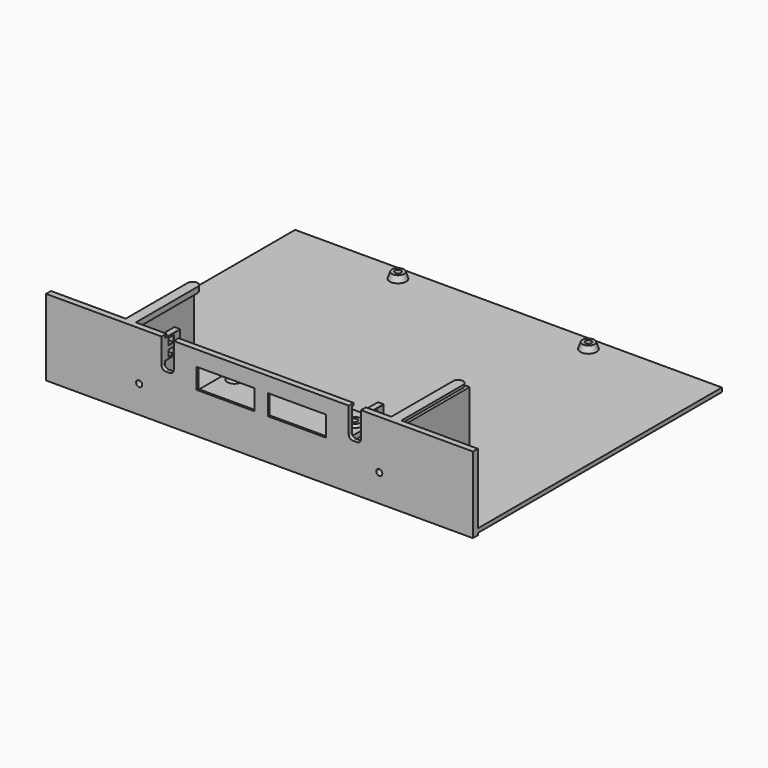
from build123d import *

# Parameters (mm, degrees)
BOX099_W                  = 3
BOX099_H                  = 3
BOX099_DEPTH              = 3
BOX098_W                  = 3
BOX098_H                  = 3
BOX098_DEPTH              = 3
BOX097_W                  = 10
BOX097_H                  = 3
BOX097_DEPTH              = 10
FILLET023_R               = 0.2
BOX096_W                  = 3
BOX096_H                  = 3
BOX096_DEPTH              = 3
BOX095_W                  = 3
BOX095_H                  = 3
BOX095_DEPTH              = 3
BOX094_W                  = 10
BOX094_H                  = 3
BOX094_DEPTH              = 10
FILLET022_R               = 0.2
CYLINDER017_R             = 1.5
CYLINDER017_DEPTH         = 10
CYLINDER016_R             = 1.5
CYLINDER016_DEPTH         = 10
BOX072_W                  = 10
BOX072_H                  = 5.45
BOX072_DEPTH              = 5
BOX072_PLACEMENT_ANGLE    = 30
BOX071_W                  = 5.45
BOX071_H                  = 10
BOX071_DEPTH              = 5
BOX071_PLACEMENT_ANGLE    = 120
BOX070_W                  = 5.45
BOX070_H                  = 10
BOX070_DEPTH              = 5
CYLINDER010_R             = 1.5
CYLINDER010_DEPTH         = 10
BOX075_W                  = 10
BOX075_H                  = 5.45
BOX075_DEPTH              = 5
BOX075_PLACEMENT_ANGLE    = 30
BOX074_W                  = 5.45
BOX074_H                  = 10
BOX074_DEPTH              = 5
BOX074_PLACEMENT_ANGLE    = 120
BOX073_W                  = 5.45
BOX073_H                  = 10
BOX073_DEPTH              = 5
CYLINDER011_R             = 1.5
CYLINDER011_DEPTH         = 10
BOX078_W                  = 10
BOX078_H                  = 5.45
BOX078_DEPTH              = 5
BOX078_PLACEMENT_ANGLE    = 30
BOX077_W                  = 5.45
BOX077_H                  = 10
BOX077_DEPTH              = 5
BOX077_PLACEMENT_ANGLE    = 120
BOX076_W                  = 5.45
BOX076_H                  = 10
BOX076_DEPTH              = 5
CYLINDER012_R             = 1.5
CYLINDER012_DEPTH         = 10
BOX066_W                  = 10
BOX066_H                  = 5.45
BOX066_DEPTH              = 5
BOX066_PLACEMENT_ANGLE    = 30
BOX065_W                  = 5.45
BOX065_H                  = 10
BOX065_DEPTH              = 5
BOX065_PLACEMENT_ANGLE    = 120
BOX064_W                  = 5.45
BOX064_H                  = 10
BOX064_DEPTH              = 5
CYLINDER_R                = 1.5
CYLINDER_DEPTH            = 10
CYLINDER004_R             = 2.75
CYLINDER004_DEPTH         = 3
FILLET003_R               = 0.5
BOX056_W                  = 130
BOX056_H                  = 5.5
BOX056_DEPTH              = 3
FILLET002_R               = 0.5
CYLINDER005_R             = 2.75
CYLINDER005_DEPTH         = 3
FILLET005_R               = 0.5
BOX057_W                  = 130
BOX057_H                  = 5.5
BOX057_DEPTH              = 3
FILLET004_R               = 0.5
CYLINDER006_R             = 2.75
CYLINDER006_DEPTH         = 3
FILLET007_R               = 0.5
BOX058_W                  = 130
BOX058_H                  = 5.5
BOX058_DEPTH              = 3
FILLET006_R               = 0.5
CYLINDER007_R             = 2.75
CYLINDER007_DEPTH         = 3
FILLET009_R               = 0.5
BOX059_W                  = 130
BOX059_H                  = 5.5
BOX059_DEPTH              = 3
FILLET008_R               = 0.5
BOX054_W                  = 150
BOX054_H                  = 209.75
BOX054_DEPTH              = 2
BOX093_W                  = 147
BOX093_H                  = 102
BOX093_DEPTH              = 2
BOX090_W                  = 10
BOX090_H                  = 5.45
BOX090_DEPTH              = 2
BOX090_PLACEMENT_ANGLE    = 30
BOX092_W                  = 5.45
BOX092_H                  = 10
BOX092_DEPTH              = 2
BOX092_PLACEMENT_ANGLE    = 120
BOX091_W                  = 5.45
BOX091_H                  = 10
BOX091_DEPTH              = 2
CYLINDER015_R             = 1.5
CYLINDER015_DEPTH         = 10
BOX089_W                  = 10
BOX089_H                  = 5.45
BOX089_DEPTH              = 2
BOX089_PLACEMENT_ANGLE    = 30
BOX088_W                  = 5.45
BOX088_H                  = 10
BOX088_DEPTH              = 2
BOX088_PLACEMENT_ANGLE    = 120
BOX087_W                  = 5.45
BOX087_H                  = 10
BOX087_DEPTH              = 2
CYLINDER014_R             = 1.5
CYLINDER014_DEPTH         = 10
BOX084_W                  = 10
BOX084_H                  = 5
BOX084_DEPTH              = 20
BOX084_PLACEMENT_ANGLE    = 45
BOX083_W                  = 10
BOX083_H                  = 5
BOX083_DEPTH              = 10
BOX085_W                  = 10
BOX085_H                  = 5
BOX085_DEPTH              = 20
BOX085_PLACEMENT_ANGLE    = 45
BOX086_W                  = 10
BOX086_H                  = 5
BOX086_DEPTH              = 10
BOX082_W                  = 70
BOX082_H                  = 30
BOX082_DEPTH              = 2.5
CYLINDER001_R             = 1.5
CYLINDER001_DEPTH         = 10
CYLINDER002_R             = 1.5
CYLINDER002_DEPTH         = 10
CYLINDER003_R             = 1.5
CYLINDER003_DEPTH         = 10
CYLINDER013_R             = 1.5
CYLINDER013_DEPTH         = 10
BOX081_W                  = 70
BOX081_H                  = 5
BOX081_DEPTH              = 13
BOX079_W                  = 28.5
BOX079_H                  = 10
BOX079_DEPTH              = 10
BOX080_W                  = 28.5
BOX080_H                  = 10
BOX080_DEPTH              = 10
FUSION029_PLACEMENT_ANGLE = 90
CYLINDER009_R             = 2.5
CYLINDER009_DEPTH         = 3
FILLET013_R               = 0.5
BOX063_W                  = 38
BOX063_H                  = 5
BOX063_DEPTH              = 3
FILLET012_R               = 0.5
BOX061_W                  = 40
BOX061_H                  = 3
BOX061_DEPTH              = 35.2
BOX060_W                  = 40
BOX060_H                  = 3
BOX060_DEPTH              = 35.2
BOX069_W                  = 10
BOX069_H                  = 6
BOX069_DEPTH              = 15
FILLET015_R               = 2
BOX068_W                  = 10
BOX068_H                  = 6
BOX068_DEPTH              = 15
FILLET014_R               = 2
BOX067_W                  = 4
BOX067_H                  = 203
BOX067_DEPTH              = 33.5
BOX055_W                  = 3
BOX055_H                  = 209.75
BOX055_DEPTH              = 37.5
CYLINDER008_R             = 2.5
CYLINDER008_DEPTH         = 3
FILLET011_R               = 0.5
BOX062_W                  = 38
BOX062_H                  = 5
BOX062_DEPTH              = 3
FILLET010_R               = 0.5
FUSION043_PLACEMENT_ANGLE = 90


with BuildPart() as cube098:
    # Box099 → Box099 (new body)
    with BuildSketch(Plane(origin=(3, 10, 32), x_dir=(1, 0, 0), z_dir=(0, 0, 1))):
        with Locations((1.5, 1.5)):
            Rectangle(BOX099_W, BOX099_H)
    extrude(amount=BOX099_DEPTH)


with BuildPart() as fusion026:
    # Box098 → Box098 (new body)
    with BuildSketch(Plane(origin=(3, 10, 27), x_dir=(1, 0, 0), z_dir=(0, 0, 1))):
        with Locations((1.5, 1.5)):
            Rectangle(BOX098_W, BOX098_H)
    extrude(amount=BOX098_DEPTH)

    # Fusion041: union Cube098
    add(cube098.part)


with BuildPart() as zip_ties_holder001:
    # Box097 → Box097 (new body)
    with BuildSketch(Plane(origin=(0, 10, 26), x_dir=(1, 0, 0), z_dir=(0, 0, 1))):
        with Locations((5, 1.5)):
            Rectangle(BOX097_W, BOX097_H)
    extrude(amount=BOX097_DEPTH)

    # Cut029: cut Fusion026
    add(fusion026.part, mode=Mode.SUBTRACT)

    # Fillet023
    fillet023_edges = [zip_ties_holder001.edges().sort_by_distance(p)[0] for p in [
        (5, 10, 26),
        (10, 10, 31),
        (5, 10, 36),
        (4.5, 10, 30),
        (6, 10, 28.5),
        (4.5, 10, 27),
        (3, 10, 28.5),
        (4.5, 10, 35),
        (6, 10, 33.5),
        (4.5, 10, 32),
        (3, 10, 33.5),
        (5, 13, 36),
        (10, 13, 31),
        (4.5, 13, 30),
        (6, 13, 28.5),
        (4.5, 13, 27),
        (3, 13, 28.5),
        (4.5, 13, 35),
        (6, 13, 33.5),
        (4.5, 13, 32),
        (3, 13, 33.5),
        (10, 11.5, 26),
    ]]
    fillet(fillet023_edges, radius=FILLET023_R)


with BuildPart() as zip_ties_holder001_1:
    # Fillet023 placement: moved
    add(zip_ties_holder001.part.moved(Location((-1, 87, -1))))


with BuildPart() as cube095:
    # Box096 → Box096 (new body)
    with BuildSketch(Plane(origin=(3, 10, 32), x_dir=(1, 0, 0), z_dir=(0, 0, 1))):
        with Locations((1.5, 1.5)):
            Rectangle(BOX096_W, BOX096_H)
    extrude(amount=BOX096_DEPTH)


with BuildPart() as fusion025:
    # Box095 → Box095 (new body)
    with BuildSketch(Plane(origin=(3, 10, 27), x_dir=(1, 0, 0), z_dir=(0, 0, 1))):
        with Locations((1.5, 1.5)):
            Rectangle(BOX095_W, BOX095_H)
    extrude(amount=BOX095_DEPTH)

    # Fusion040: union Cube095
    add(cube095.part)


with BuildPart() as zip_ties_holders:
    # Box094 → Box094 (new body)
    with BuildSketch(Plane(origin=(0, 10, 26), x_dir=(1, 0, 0), z_dir=(0, 0, 1))):
        with Locations((5, 1.5)):
            Rectangle(BOX094_W, BOX094_H)
    extrude(amount=BOX094_DEPTH)

    # Cut028: cut Fusion025
    add(fusion025.part, mode=Mode.SUBTRACT)

    # Fillet022
    fillet022_edges = [zip_ties_holders.edges().sort_by_distance(p)[0] for p in [
        (5, 10, 26),
        (10, 10, 31),
        (5, 10, 36),
        (4.5, 10, 30),
        (6, 10, 28.5),
        (4.5, 10, 27),
        (3, 10, 28.5),
        (4.5, 10, 35),
        (6, 10, 33.5),
        (4.5, 10, 32),
        (3, 10, 33.5),
        (5, 13, 36),
        (10, 13, 31),
        (4.5, 13, 30),
        (6, 13, 28.5),
        (4.5, 13, 27),
        (3, 13, 28.5),
        (4.5, 13, 35),
        (6, 13, 33.5),
        (4.5, 13, 32),
        (3, 13, 33.5),
        (10, 11.5, 26),
    ]]
    fillet(fillet022_edges, radius=FILLET022_R)


with BuildPart() as zip_ties_holders_1:
    # Fillet022 placement: moved
    add(zip_ties_holders.part.moved(Location((-1, -13, -1))))

    # Fusion042: union zip ties holder001
    add(zip_ties_holder001_1.part)


with BuildPart() as zip_ties_holders_2:
    # Fusion042 placement: moved
    add(zip_ties_holders_1.part.moved(Location((-0.5, 0, 0))))


with BuildPart() as cylinder017:
    # Cylinder017 → Cylinder017 (new body)
    with BuildSketch(Plane(origin=(-5, 108, 32.5), x_dir=(0, 0, -1), z_dir=(1, 0, 0))):
        Circle(CYLINDER017_R)
    extrude(amount=CYLINDER017_DEPTH)


with BuildPart() as fusion023:
    # Cylinder016 → Cylinder016 (new body)
    with BuildSketch(Plane(origin=(-5, -10, 32.5), x_dir=(0, 0, -1), z_dir=(1, 0, 0))):
        Circle(CYLINDER016_R)
    extrude(amount=CYLINDER016_DEPTH)

    # Fusion038: union Cylinder017
    add(cylinder017.part)


with BuildPart() as fusion023_1:
    # Fusion038 placement: moved
    add(fusion023.part.moved(Location((0, 0, -20))))


with BuildPart() as cone007:
    # Cone007 → Cone007 (revolve)
    with BuildSketch(Plane(origin=(-1, 108, 32.5), x_dir=(0, 0, -1), z_dir=(0, -1, 0))):
        Polygon((0, 0), (3, 0), (2, 5), (0, 5), align=None)
    revolve(axis=Axis((-1, 108, 32.5), (1, 0, 0)))


with BuildPart() as fusion022:
    # Cone006 → Cone006 (revolve)
    with BuildSketch(Plane(origin=(-1, -10, 32.5), x_dir=(0, 0, -1), z_dir=(0, -1, 0))):
        Polygon((0, 0), (3, 0), (2, 5), (0, 5), align=None)
    revolve(axis=Axis((-1, -10, 32.5), (1, 0, 0)))

    # Fusion037: union Cone007
    add(cone007.part)


with BuildPart() as fusion022_1:
    # Fusion037 placement: moved
    add(fusion022.part.moved(Location((-1, 0, -20))))


with BuildPart() as cube072:
    # Box072 → Box072 (new body)
    with BuildSketch(Plane.XY):
        with Locations((5, 2.725)):
            Rectangle(BOX072_W, BOX072_H)
    extrude(amount=BOX072_DEPTH)


with BuildPart() as cube072_1:
    # Box072 placement: moved
    add(cube072.part.moved(Location((0.55, 4, 0))).rotate(Axis((0.55, 4, 0), (0, 0, -1)), BOX072_PLACEMENT_ANGLE))


with BuildPart() as cube071:
    # Box071 → Box071 (new body)
    with BuildSketch(Plane.XY):
        with Locations((2.725, 5)):
            Rectangle(BOX071_W, BOX071_H)
    extrude(amount=BOX071_DEPTH)


with BuildPart() as cube071_1:
    # Box071 placement: moved
    add(cube071.part.moved(Location((11.5, 4, 0))).rotate(Axis((11.5, 4, 0), (0, 0, 1)), BOX071_PLACEMENT_ANGLE))


with BuildPart() as m_25_nut001:
    # Box070 → Box070 (new body)
    with BuildSketch(Plane(origin=(3.25, 0, 0), x_dir=(1, 0, 0), z_dir=(0, 0, 1))):
        with Locations((2.725, 5)):
            Rectangle(BOX070_W, BOX070_H)
    extrude(amount=BOX070_DEPTH)

    # Common001: intersect Cube072, Cube071
    add(cube072_1.part, mode=Mode.INTERSECT)
    add(cube071_1.part, mode=Mode.INTERSECT)


with BuildPart() as m_25_nut001_1:
    # Common001 placement: moved
    add(m_25_nut001.part.moved(Location((-2, 0, -1))))


with BuildPart() as screw_hole001:
    # Cylinder010 → Cylinder010 (new body)
    with BuildSketch(Plane(origin=(4, 4, -1), x_dir=(1, 0, 0), z_dir=(0, 0, 1))):
        Circle(CYLINDER010_R)
    extrude(amount=CYLINDER010_DEPTH)

    # Fusion024: union M.25 nut001
    add(m_25_nut001_1.part)


with BuildPart() as screw_hole001_1:
    # Fusion024 placement: moved
    add(screw_hole001.part.moved(Location((139, 0, 0))))


with BuildPart() as cube075:
    # Box075 → Box075 (new body)
    with BuildSketch(Plane.XY):
        with Locations((5, 2.725)):
            Rectangle(BOX075_W, BOX075_H)
    extrude(amount=BOX075_DEPTH)


with BuildPart() as cube075_1:
    # Box075 placement: moved
    add(cube075.part.moved(Location((0.55, 4, 0))).rotate(Axis((0.55, 4, 0), (0, 0, -1)), BOX075_PLACEMENT_ANGLE))


with BuildPart() as cube074:
    # Box074 → Box074 (new body)
    with BuildSketch(Plane.XY):
        with Locations((2.725, 5)):
            Rectangle(BOX074_W, BOX074_H)
    extrude(amount=BOX074_DEPTH)


with BuildPart() as cube074_1:
    # Box074 placement: moved
    add(cube074.part.moved(Location((11.5, 4, 0))).rotate(Axis((11.5, 4, 0), (0, 0, 1)), BOX074_PLACEMENT_ANGLE))


with BuildPart() as m_25_nut002:
    # Box073 → Box073 (new body)
    with BuildSketch(Plane(origin=(3.25, 0, 0), x_dir=(1, 0, 0), z_dir=(0, 0, 1))):
        with Locations((2.725, 5)):
            Rectangle(BOX073_W, BOX073_H)
    extrude(amount=BOX073_DEPTH)

    # Common002: intersect Cube075, Cube074
    add(cube075_1.part, mode=Mode.INTERSECT)
    add(cube074_1.part, mode=Mode.INTERSECT)


with BuildPart() as m_25_nut002_1:
    # Common002 placement: moved
    add(m_25_nut002.part.moved(Location((-2, 0, -1))))


with BuildPart() as screw_hole002:
    # Cylinder011 → Cylinder011 (new body)
    with BuildSketch(Plane(origin=(4, 4, -1), x_dir=(1, 0, 0), z_dir=(0, 0, 1))):
        Circle(CYLINDER011_R)
    extrude(amount=CYLINDER011_DEPTH)

    # Fusion025: union M.25 nut002
    add(m_25_nut002_1.part)


with BuildPart() as screw_hole002_1:
    # Fusion025 placement: moved
    add(screw_hole002.part.moved(Location((0, 93.6, 0))))


with BuildPart() as cube078:
    # Box078 → Box078 (new body)
    with BuildSketch(Plane.XY):
        with Locations((5, 2.725)):
            Rectangle(BOX078_W, BOX078_H)
    extrude(amount=BOX078_DEPTH)


with BuildPart() as cube078_1:
    # Box078 placement: moved
    add(cube078.part.moved(Location((0.55, 4, 0))).rotate(Axis((0.55, 4, 0), (0, 0, -1)), BOX078_PLACEMENT_ANGLE))


with BuildPart() as cube077:
    # Box077 → Box077 (new body)
    with BuildSketch(Plane.XY):
        with Locations((2.725, 5)):
            Rectangle(BOX077_W, BOX077_H)
    extrude(amount=BOX077_DEPTH)


with BuildPart() as cube077_1:
    # Box077 placement: moved
    add(cube077.part.moved(Location((11.5, 4, 0))).rotate(Axis((11.5, 4, 0), (0, 0, 1)), BOX077_PLACEMENT_ANGLE))


with BuildPart() as m_25_nut003:
    # Box076 → Box076 (new body)
    with BuildSketch(Plane(origin=(3.25, 0, 0), x_dir=(1, 0, 0), z_dir=(0, 0, 1))):
        with Locations((2.725, 5)):
            Rectangle(BOX076_W, BOX076_H)
    extrude(amount=BOX076_DEPTH)

    # Common003: intersect Cube078, Cube077
    add(cube078_1.part, mode=Mode.INTERSECT)
    add(cube077_1.part, mode=Mode.INTERSECT)


with BuildPart() as m_25_nut003_1:
    # Common003 placement: moved
    add(m_25_nut003.part.moved(Location((-2, 0, -1))))


with BuildPart() as screw_hole003:
    # Cylinder012 → Cylinder012 (new body)
    with BuildSketch(Plane(origin=(4, 4, -1), x_dir=(1, 0, 0), z_dir=(0, 0, 1))):
        Circle(CYLINDER012_R)
    extrude(amount=CYLINDER012_DEPTH)

    # Fusion026: union M.25 nut003
    add(m_25_nut003_1.part)


with BuildPart() as screw_hole003_1:
    # Fusion026 placement: moved
    add(screw_hole003.part.moved(Location((139, 93.6, 0))))


with BuildPart() as cube066:
    # Box066 → Box066 (new body)
    with BuildSketch(Plane.XY):
        with Locations((5, 2.725)):
            Rectangle(BOX066_W, BOX066_H)
    extrude(amount=BOX066_DEPTH)


with BuildPart() as cube066_1:
    # Box066 placement: moved
    add(cube066.part.moved(Location((0.55, 4, 0))).rotate(Axis((0.55, 4, 0), (0, 0, -1)), BOX066_PLACEMENT_ANGLE))


with BuildPart() as cube065:
    # Box065 → Box065 (new body)
    with BuildSketch(Plane.XY):
        with Locations((2.725, 5)):
            Rectangle(BOX065_W, BOX065_H)
    extrude(amount=BOX065_DEPTH)


with BuildPart() as cube065_1:
    # Box065 placement: moved
    add(cube065.part.moved(Location((11.5, 4, 0))).rotate(Axis((11.5, 4, 0), (0, 0, 1)), BOX065_PLACEMENT_ANGLE))


with BuildPart() as m_25_nut:
    # Box064 → Box064 (new body)
    with BuildSketch(Plane(origin=(3.25, 0, 0), x_dir=(1, 0, 0), z_dir=(0, 0, 1))):
        with Locations((2.725, 5)):
            Rectangle(BOX064_W, BOX064_H)
    extrude(amount=BOX064_DEPTH)

    # Common: intersect Cube066, Cube065
    add(cube066_1.part, mode=Mode.INTERSECT)
    add(cube065_1.part, mode=Mode.INTERSECT)


with BuildPart() as m_25_nut_1:
    # Common placement: moved
    add(m_25_nut.part.moved(Location((-2, 0, -1))))


with BuildPart() as screws:
    # Cylinder → Cylinder (new body)
    with BuildSketch(Plane(origin=(4, 4, -1), x_dir=(1, 0, 0), z_dir=(0, 0, 1))):
        Circle(CYLINDER_R)
    extrude(amount=CYLINDER_DEPTH)

    # Fusion023: union M.25 nut
    add(m_25_nut_1.part)

    # Fusion027: union screw_hole001, screw_hole002, screw_hole003
    add(screw_hole001_1.part)
    add(screw_hole002_1.part)
    add(screw_hole003_1.part)


with BuildPart() as screws_1:
    # Fusion027 placement: moved
    add(screws.part.moved(Location((0, 0, -1.5))))


with BuildPart() as fillet003:
    # Cylinder004 → Cylinder004 (new body)
    with BuildSketch(Plane(origin=(130, 2.75, -2), x_dir=(1, 0, 0), z_dir=(0, 0, 1))):
        Circle(CYLINDER004_R)
    extrude(amount=CYLINDER004_DEPTH)

    # Fillet003
    fillet003_edges = [fillet003.edges().sort_by_distance(p)[0] for p in [
        (127.25, 2.75, -2),
    ]]
    fillet(fillet003_edges, radius=FILLET003_R)


with BuildPart() as fusion015:
    # Box056 → Box056 (new body)
    with BuildSketch(Plane.XY.offset(-2)):
        with Locations((65, 2.75)):
            Rectangle(BOX056_W, BOX056_H)
    extrude(amount=BOX056_DEPTH)

    # Fillet002
    fillet002_edges = [fusion015.edges().sort_by_distance(p)[0] for p in [
        (65, 0, -2),
        (65, 5.5, -2),
    ]]
    fillet(fillet002_edges, radius=FILLET002_R)

    # Fusion015: union Fillet003
    add(fillet003.part)


with BuildPart() as fusion015_1:
    # Fusion015 placement: moved
    add(fusion015.part.moved(Location((0, -39.25, 1))))


with BuildPart() as fillet005:
    # Cylinder005 → Cylinder005 (new body)
    with BuildSketch(Plane(origin=(130, 2.75, -2), x_dir=(1, 0, 0), z_dir=(0, 0, 1))):
        Circle(CYLINDER005_R)
    extrude(amount=CYLINDER005_DEPTH)

    # Fillet005
    fillet005_edges = [fillet005.edges().sort_by_distance(p)[0] for p in [
        (127.25, 2.75, -2),
    ]]
    fillet(fillet005_edges, radius=FILLET005_R)


with BuildPart() as fusion016:
    # Box057 → Box057 (new body)
    with BuildSketch(Plane.XY.offset(-2)):
        with Locations((65, 2.75)):
            Rectangle(BOX057_W, BOX057_H)
    extrude(amount=BOX057_DEPTH)

    # Fillet004
    fillet004_edges = [fusion016.edges().sort_by_distance(p)[0] for p in [
        (65, 0, -2),
        (65, 5.5, -2),
    ]]
    fillet(fillet004_edges, radius=FILLET004_R)

    # Fusion016: union Fillet005
    add(fillet005.part)


with BuildPart() as fusion016_1:
    # Fusion016 placement: moved
    add(fusion016.part.moved(Location((0, 129.25, 1))))


with BuildPart() as fillet007:
    # Cylinder006 → Cylinder006 (new body)
    with BuildSketch(Plane(origin=(130, 2.75, -2), x_dir=(1, 0, 0), z_dir=(0, 0, 1))):
        Circle(CYLINDER006_R)
    extrude(amount=CYLINDER006_DEPTH)

    # Fillet007
    fillet007_edges = [fillet007.edges().sort_by_distance(p)[0] for p in [
        (127.25, 2.75, -2),
    ]]
    fillet(fillet007_edges, radius=FILLET007_R)


with BuildPart() as fusion017:
    # Box058 → Box058 (new body)
    with BuildSketch(Plane.XY.offset(-2)):
        with Locations((65, 2.75)):
            Rectangle(BOX058_W, BOX058_H)
    extrude(amount=BOX058_DEPTH)

    # Fillet006
    fillet006_edges = [fusion017.edges().sort_by_distance(p)[0] for p in [
        (65, 0, -2),
        (65, 5.5, -2),
    ]]
    fillet(fillet006_edges, radius=FILLET006_R)

    # Fusion017: union Fillet007
    add(fillet007.part)


with BuildPart() as fusion017_1:
    # Fusion017 placement: moved
    add(fusion017.part.moved(Location((0, 101.25, 1))))


with BuildPart() as fillet009:
    # Cylinder007 → Cylinder007 (new body)
    with BuildSketch(Plane(origin=(130, 2.75, -2), x_dir=(1, 0, 0), z_dir=(0, 0, 1))):
        Circle(CYLINDER007_R)
    extrude(amount=CYLINDER007_DEPTH)

    # Fillet009
    fillet009_edges = [fillet009.edges().sort_by_distance(p)[0] for p in [
        (127.25, 2.75, -2),
    ]]
    fillet(fillet009_edges, radius=FILLET009_R)


with BuildPart() as fusion018:
    # Box059 → Box059 (new body)
    with BuildSketch(Plane.XY.offset(-2)):
        with Locations((65, 2.75)):
            Rectangle(BOX059_W, BOX059_H)
    extrude(amount=BOX059_DEPTH)

    # Fillet008
    fillet008_edges = [fusion018.edges().sort_by_distance(p)[0] for p in [
        (65, 0, -2),
        (65, 5.5, -2),
    ]]
    fillet(fillet008_edges, radius=FILLET008_R)

    # Fusion018: union Fillet009
    add(fillet009.part)


with BuildPart() as fusion018_1:
    # Fusion018 placement: moved
    add(fusion018.part.moved(Location((0, -11.25, 1))))


with BuildPart() as cone:
    # Cone → Cone (revolve)
    with BuildSketch(Plane(origin=(4, 4, 2), x_dir=(1, 0, 0), z_dir=(0, -1, 0))):
        Polygon((0, 0), (4, 0), (3, 3), (0, 3), align=None)
    revolve(axis=Axis((4, 4, 2), (0, 0, 1)))


with BuildPart() as cone001:
    # Cone001 → Cone001 (revolve)
    with BuildSketch(Plane(origin=(143, 4, 2), x_dir=(1, 0, 0), z_dir=(0, -1, 0))):
        Polygon((0, 0), (4, 0), (3, 3), (0, 3), align=None)
    revolve(axis=Axis((143, 4, 2), (0, 0, 1)))


with BuildPart() as cone002:
    # Cone002 → Cone002 (revolve)
    with BuildSketch(Plane(origin=(4, 97.6, 2), x_dir=(1, 0, 0), z_dir=(0, -1, 0))):
        Polygon((0, 0), (4, 0), (3, 3), (0, 3), align=None)
    revolve(axis=Axis((4, 97.6, 2), (0, 0, 1)))


with BuildPart() as cone003:
    # Cone003 → Cone003 (revolve)
    with BuildSketch(Plane(origin=(143, 97.6, 2), x_dir=(1, 0, 0), z_dir=(0, -1, 0))):
        Polygon((0, 0), (4, 0), (3, 3), (0, 3), align=None)
    revolve(axis=Axis((143, 97.6, 2), (0, 0, 1)))


with BuildPart() as cut008:
    # Box054 → Box054 (new body)
    with BuildSketch(Plane(origin=(0, -56, 0), x_dir=(1, 0, 0), z_dir=(0, 0, 1))):
        with Locations((75, 104.875)):
            Rectangle(BOX054_W, BOX054_H)
    extrude(amount=BOX054_DEPTH)

    # Fusion022: union Fusion015, Fusion016, Fusion017, Fusion018, Cone, Cone001, Cone002, Cone003
    add(fusion015_1.part)
    add(fusion016_1.part)
    add(fusion017_1.part)
    add(fusion018_1.part)
    add(cone.part)
    add(cone001.part)
    add(cone002.part)
    add(cone003.part)

    # Cut026: cut Screws
    add(screws_1.part, mode=Mode.SUBTRACT)


with BuildPart() as actual_c61_board:
    # Box093 → Box093 (new body)
    with BuildSketch(Plane.XY.offset(5)):
        with Locations((73.5, 51)):
            Rectangle(BOX093_W, BOX093_H)
    extrude(amount=BOX093_DEPTH)


with BuildPart() as cube090:
    # Box090 → Box090 (new body)
    with BuildSketch(Plane.XY):
        with Locations((5, 2.725)):
            Rectangle(BOX090_W, BOX090_H)
    extrude(amount=BOX090_DEPTH)


with BuildPart() as cube090_1:
    # Box090 placement: moved
    add(cube090.part.moved(Location((0.55, 4, 0))).rotate(Axis((0.55, 4, 0), (0, 0, -1)), BOX090_PLACEMENT_ANGLE))


with BuildPart() as cube092:
    # Box092 → Box092 (new body)
    with BuildSketch(Plane.XY):
        with Locations((2.725, 5)):
            Rectangle(BOX092_W, BOX092_H)
    extrude(amount=BOX092_DEPTH)


with BuildPart() as cube092_1:
    # Box092 placement: moved
    add(cube092.part.moved(Location((11.5, 4, 0))).rotate(Axis((11.5, 4, 0), (0, 0, 1)), BOX092_PLACEMENT_ANGLE))


with BuildPart() as m_25_nut005:
    # Box091 → Box091 (new body)
    with BuildSketch(Plane(origin=(3.25, 0, 0), x_dir=(1, 0, 0), z_dir=(0, 0, 1))):
        with Locations((2.725, 5)):
            Rectangle(BOX091_W, BOX091_H)
    extrude(amount=BOX091_DEPTH)

    # Common005: intersect Cube090, Cube092
    add(cube090_1.part, mode=Mode.INTERSECT)
    add(cube092_1.part, mode=Mode.INTERSECT)


with BuildPart() as m_25_nut005_1:
    # Common005 placement: moved
    add(m_25_nut005.part.moved(Location((-2, 0, -1))))


with BuildPart() as screw_hole005:
    # Cylinder015 → Cylinder015 (new body)
    with BuildSketch(Plane(origin=(4, 4, -1), x_dir=(1, 0, 0), z_dir=(0, 0, 1))):
        Circle(CYLINDER015_R)
    extrude(amount=CYLINDER015_DEPTH)

    # Fusion033: union M.25 nut005
    add(m_25_nut005_1.part)


with BuildPart() as screw_hole005_1:
    # Fusion033 placement: moved
    add(screw_hole005.part.moved(Location((13.5, 74, 13))))


with BuildPart() as cube089:
    # Box089 → Box089 (new body)
    with BuildSketch(Plane.XY):
        with Locations((5, 2.725)):
            Rectangle(BOX089_W, BOX089_H)
    extrude(amount=BOX089_DEPTH)


with BuildPart() as cube089_1:
    # Box089 placement: moved
    add(cube089.part.moved(Location((0.55, 4, 0))).rotate(Axis((0.55, 4, 0), (0, 0, -1)), BOX089_PLACEMENT_ANGLE))


with BuildPart() as cube088:
    # Box088 → Box088 (new body)
    with BuildSketch(Plane.XY):
        with Locations((2.725, 5)):
            Rectangle(BOX088_W, BOX088_H)
    extrude(amount=BOX088_DEPTH)


with BuildPart() as cube088_1:
    # Box088 placement: moved
    add(cube088.part.moved(Location((11.5, 4, 0))).rotate(Axis((11.5, 4, 0), (0, 0, 1)), BOX088_PLACEMENT_ANGLE))


with BuildPart() as m_25_nut004:
    # Box087 → Box087 (new body)
    with BuildSketch(Plane(origin=(3.25, 0, 0), x_dir=(1, 0, 0), z_dir=(0, 0, 1))):
        with Locations((2.725, 5)):
            Rectangle(BOX087_W, BOX087_H)
    extrude(amount=BOX087_DEPTH)

    # Common004: intersect Cube089, Cube088
    add(cube089_1.part, mode=Mode.INTERSECT)
    add(cube088_1.part, mode=Mode.INTERSECT)


with BuildPart() as m_25_nut004_1:
    # Common004 placement: moved
    add(m_25_nut004.part.moved(Location((-2, 0, -1))))


with BuildPart() as obj1:
    # Cylinder014 → Cylinder014 (new body)
    with BuildSketch(Plane(origin=(4, 4, -1), x_dir=(1, 0, 0), z_dir=(0, 0, 1))):
        Circle(CYLINDER014_R)
    extrude(amount=CYLINDER014_DEPTH)

    # Fusion032: union M.25 nut004
    add(m_25_nut004_1.part)


with BuildPart() as obj1_1:
    # Fusion032 placement: moved
    add(obj1.part.moved(Location((13.5, 15, 13))))

    # Fusion034: union screw_hole005
    add(screw_hole005_1.part)


with BuildPart() as cone004:
    # Cone004 → Cone004 (revolve)
    with BuildSketch(Plane(origin=(17.5, 19, 14), x_dir=(1, 0, 0), z_dir=(0, -1, 0))):
        Polygon((0, 0), (4, 0), (3, 3), (0, 3), align=None)
    revolve(axis=Axis((17.5, 19, 14), (0, 0, 1)))


with BuildPart() as cone005:
    # Cone005 → Cone005 (revolve)
    with BuildSketch(Plane(origin=(17.5, 78, 14), x_dir=(1, 0, 0), z_dir=(0, -1, 0))):
        Polygon((0, 0), (4, 0), (3, 3), (0, 3), align=None)
    revolve(axis=Axis((17.5, 78, 14), (0, 0, 1)))


with BuildPart() as cube084:
    # Box084 → Box084 (new body)
    with BuildSketch(Plane.XY):
        with Locations((5, 2.5)):
            Rectangle(BOX084_W, BOX084_H)
    extrude(amount=BOX084_DEPTH)


with BuildPart() as cube084_1:
    # Box084 placement: moved
    add(cube084.part.rotate(Axis((0, 0, 0), (0, 1, 0)), BOX084_PLACEMENT_ANGLE))


with BuildPart() as cut022:
    # Box083 → Box083 (new body)
    with BuildSketch(Plane.XY):
        with Locations((5, 2.5)):
            Rectangle(BOX083_W, BOX083_H)
    extrude(amount=BOX083_DEPTH)

    # Cut022: cut Cube084
    add(cube084_1.part, mode=Mode.SUBTRACT)


with BuildPart() as cut022_1:
    # Cut022 placement: moved
    add(cut022.part.moved(Location((-3.5, 13.5, 4))))


with BuildPart() as cube085:
    # Box085 → Box085 (new body)
    with BuildSketch(Plane.XY):
        with Locations((5, 2.5)):
            Rectangle(BOX085_W, BOX085_H)
    extrude(amount=BOX085_DEPTH)


with BuildPart() as cube085_1:
    # Box085 placement: moved
    add(cube085.part.rotate(Axis((0, 0, 0), (0, 1, 0)), BOX085_PLACEMENT_ANGLE))


with BuildPart() as cut005:
    # Box086 → Box086 (new body)
    with BuildSketch(Plane.XY):
        with Locations((5, 2.5)):
            Rectangle(BOX086_W, BOX086_H)
    extrude(amount=BOX086_DEPTH)

    # Cut023: cut Cube085
    add(cube085_1.part, mode=Mode.SUBTRACT)


with BuildPart() as cut005_1:
    # Cut023 placement: moved
    add(cut005.part.moved(Location((-3.5, 78.5, 4))))


with BuildPart() as obj2:
    # Box082 → Box082 (new body)
    with BuildSketch(Plane(origin=(26.5, 13.5, 13), x_dir=(0, 1, 0), z_dir=(0, 0, 1))):
        with Locations((35, 15)):
            Rectangle(BOX082_W, BOX082_H)
    extrude(amount=BOX082_DEPTH)

    # Fusion031: union Cone004, Cone005, Cut022, Cut005
    add(cone004.part)
    add(cone005.part)
    add(cut022_1.part)
    add(cut005_1.part)

    # Cut024: cut obj1
    add(obj1_1.part, mode=Mode.SUBTRACT)


with BuildPart() as obj2_1:
    # Cut024 placement: moved
    add(obj2.part.moved(Location((0.5, 0, 0))))


with BuildPart() as cylinder001:
    # Cylinder001 → Cylinder001 (new body)
    with BuildSketch(Plane(origin=(28, 5, 7), x_dir=(1, 0, 0), z_dir=(0, -1, 0))):
        Circle(CYLINDER001_R)
    extrude(amount=CYLINDER001_DEPTH)


with BuildPart() as cylinder002:
    # Cylinder002 → Cylinder002 (new body)
    with BuildSketch(Plane(origin=(38, 5, 7), x_dir=(1, 0, 0), z_dir=(0, -1, 0))):
        Circle(CYLINDER002_R)
    extrude(amount=CYLINDER002_DEPTH)


with BuildPart() as cylinder003:
    # Cylinder003 → Cylinder003 (new body)
    with BuildSketch(Plane(origin=(63, 5, 7), x_dir=(1, 0, 0), z_dir=(0, -1, 0))):
        Circle(CYLINDER003_R)
    extrude(amount=CYLINDER003_DEPTH)


with BuildPart() as cylinder013:
    # Cylinder013 → Cylinder013 (new body)
    with BuildSketch(Plane(origin=(3, 5, 7), x_dir=(1, 0, 0), z_dir=(0, -1, 0))):
        Circle(CYLINDER013_R)
    extrude(amount=CYLINDER013_DEPTH)


with BuildPart() as fusion030:
    # Fusion030 base: copy of Cylinder013
    add(cylinder013.part)

    # Fusion030: union Cylinder001, Cylinder002, Cylinder003
    add(cylinder001.part)
    add(cylinder002.part)
    add(cylinder003.part)


with BuildPart() as cube081:
    # Box081 → Box081 (new body)
    with BuildSketch(Plane(origin=(-1.5, 0, 0), x_dir=(1, 0, 0), z_dir=(0, 0, 1))):
        with Locations((35, 2.5)):
            Rectangle(BOX081_W, BOX081_H)
    extrude(amount=BOX081_DEPTH)


with BuildPart() as cube079:
    # Box079 → Box079 (new body)
    with BuildSketch(Plane(origin=(1.25, -1, 2), x_dir=(1, 0, 0), z_dir=(0, 0, 1))):
        with Locations((14.25, 5)):
            Rectangle(BOX079_W, BOX079_H)
    extrude(amount=BOX079_DEPTH)


with BuildPart() as cube080:
    # Box080 → Box080 (new body)
    with BuildSketch(Plane(origin=(36.25, -1, 2), x_dir=(1, 0, 0), z_dir=(0, 0, 1))):
        with Locations((14.25, 5)):
            Rectangle(BOX080_W, BOX080_H)
    extrude(amount=BOX080_DEPTH)


with BuildPart() as fusion029:
    # Fusion029 base: copy of Cylinder003
    add(cylinder003.part)

    # Fusion029: union Fusion030, Cylinder001, Cylinder002, Cube081, Cylinder013, Cube079, Cube080
    add(fusion030.part)
    add(cylinder001.part)
    add(cylinder002.part)
    add(cube081.part)
    add(cylinder013.part)
    add(cube079.part)
    add(cube080.part)


with BuildPart() as fusion029_1:
    # Fusion029 placement: moved
    add(fusion029.part.moved(Location((3, 15, 17))).rotate(Axis((3, 15, 17), (0, 0, 1)), FUSION029_PLACEMENT_ANGLE))


with BuildPart() as fillet013:
    # Cylinder009 → Cylinder009 (new body)
    with BuildSketch(Plane(origin=(38, 2.5, -2), x_dir=(1, 0, 0), z_dir=(0, 0, 1))):
        Circle(CYLINDER009_R)
    extrude(amount=CYLINDER009_DEPTH)

    # Fillet013
    fillet013_edges = [fillet013.edges().sort_by_distance(p)[0] for p in [
        (35.5, 2.5, -2),
    ]]
    fillet(fillet013_edges, radius=FILLET013_R)


with BuildPart() as fusion020:
    # Box063 → Box063 (new body)
    with BuildSketch(Plane.XY.offset(-2)):
        with Locations((19, 2.5)):
            Rectangle(BOX063_W, BOX063_H)
    extrude(amount=BOX063_DEPTH)

    # Fillet012
    fillet012_edges = [fusion020.edges().sort_by_distance(p)[0] for p in [
        (19, 0, -2),
        (19, 5, -2),
    ]]
    fillet(fillet012_edges, radius=FILLET012_R)

    # Fusion020: union Fillet013
    add(fillet013.part)


with BuildPart() as fusion020_1:
    # Fusion020 placement: moved
    add(fusion020.part.moved(Location((0, 112, 35.5))))


with BuildPart() as cube061:
    # Box061 → Box061 (new body)
    with BuildSketch(Plane(origin=(0, 115.5, 0), x_dir=(1, 0, 0), z_dir=(0, 0, 1))):
        with Locations((20, 1.5)):
            Rectangle(BOX061_W, BOX061_H)
    extrude(amount=BOX061_DEPTH)


with BuildPart() as cube060:
    # Box060 → Box060 (new body)
    with BuildSketch(Plane(origin=(0, -20, 0), x_dir=(1, 0, 0), z_dir=(0, 0, 1))):
        with Locations((20, 1.5)):
            Rectangle(BOX060_W, BOX060_H)
    extrude(amount=BOX060_DEPTH)


with BuildPart() as fillet015:
    # Box069 → Box069 (new body)
    with BuildSketch(Plane.XY.offset(16)):
        with Locations((5, 3)):
            Rectangle(BOX069_W, BOX069_H)
    extrude(amount=BOX069_DEPTH)

    # Fillet015
    fillet015_edges = [fillet015.edges().sort_by_distance(p)[0] for p in [
        (5, 0, 16),
        (5, 6, 16),
    ]]
    fillet(fillet015_edges, radius=FILLET015_R)


with BuildPart() as fillet015_1:
    # Fillet015 placement: moved
    add(fillet015.part.moved(Location((0, 92, 4))))


with BuildPart() as fusion021:
    # Box068 → Box068 (new body)
    with BuildSketch(Plane.XY.offset(16)):
        with Locations((5, 3)):
            Rectangle(BOX068_W, BOX068_H)
    extrude(amount=BOX068_DEPTH)

    # Fillet014
    fillet014_edges = [fusion021.edges().sort_by_distance(p)[0] for p in [
        (5, 0, 16),
        (5, 6, 16),
    ]]
    fillet(fillet014_edges, radius=FILLET014_R)


with BuildPart() as fusion021_1:
    # Fillet014 placement: moved
    add(fusion021.part.moved(Location((0, 0, 4))))

    # Fusion021: union Fillet015
    add(fillet015_1.part)


with BuildPart() as fusion021_2:
    # Fusion021 placement: moved
    add(fusion021_1.part.moved(Location((-5, 0, 2))))


with BuildPart() as cube067:
    # Box067 → Box067 (new body)
    with BuildSketch(Plane(origin=(-3, -52, 2), x_dir=(1, 0, 0), z_dir=(0, 0, 1))):
        with Locations((2, 101.5)):
            Rectangle(BOX067_W, BOX067_H)
    extrude(amount=BOX067_DEPTH)


with BuildPart() as face_plate_with_cuts:
    # Box055 → Box055 (new body)
    with BuildSketch(Plane(origin=(-5, -55, -1), x_dir=(1, 0, 0), z_dir=(0, 0, 1))):
        with Locations((1.5, 104.875)):
            Rectangle(BOX055_W, BOX055_H)
    extrude(amount=BOX055_DEPTH)

    # Cut019: cut Cube067
    add(cube067.part, mode=Mode.SUBTRACT)


with BuildPart() as face_plate_with_cuts_1:
    # Cut019 placement: moved
    add(face_plate_with_cuts.part.moved(Location((2, 0, 0))))

    # Cut020: cut Fusion021
    add(fusion021_2.part, mode=Mode.SUBTRACT)


with BuildPart() as face_plate_with_cuts_2:
    # Cut020 placement: moved
    add(face_plate_with_cuts_1.part.moved(Location((0, -1, 0))))


with BuildPart() as fillet011:
    # Cylinder008 → Cylinder008 (new body)
    with BuildSketch(Plane(origin=(38, 2.5, -2), x_dir=(1, 0, 0), z_dir=(0, 0, 1))):
        Circle(CYLINDER008_R)
    extrude(amount=CYLINDER008_DEPTH)

    # Fillet011
    fillet011_edges = [fillet011.edges().sort_by_distance(p)[0] for p in [
        (35.5, 2.5, -2),
    ]]
    fillet(fillet011_edges, radius=FILLET011_R)


with BuildPart() as c61_tray_incomplete:
    # Box062 → Box062 (new body)
    with BuildSketch(Plane.XY.offset(-2)):
        with Locations((19, 2.5)):
            Rectangle(BOX062_W, BOX062_H)
    extrude(amount=BOX062_DEPTH)

    # Fillet010
    fillet010_edges = [c61_tray_incomplete.edges().sort_by_distance(p)[0] for p in [
        (19, 0, -2),
        (19, 5, -2),
    ]]
    fillet(fillet010_edges, radius=FILLET010_R)

    # Fusion019: union Fillet011
    add(fillet011.part)


with BuildPart() as c61_tray_incomplete_1:
    # Fusion019 placement: moved
    add(c61_tray_incomplete.part.moved(Location((0, -18.5, 35.5))))

    # Fusion028: union Fusion020, Cube061, Cube060, Face plate with cuts
    add(fusion020_1.part)
    add(cube061.part)
    add(cube060.part)
    add(face_plate_with_cuts_2.part)

    # Cut021: cut Fusion029
    add(fusion029_1.part, mode=Mode.SUBTRACT)

    # Fusion035: union obj2
    add(obj2_1.part)

    # Cut025: cut Actual C61 board
    add(actual_c61_board.part, mode=Mode.SUBTRACT)

    # Fusion036: union Cut008
    add(cut008.part)

    # Fusion039: union Fusion022
    add(fusion022_1.part)

    # Cut027: cut Fusion023
    add(fusion023_1.part, mode=Mode.SUBTRACT)

    # Fusion043: union zip ties holders
    add(zip_ties_holders_2.part)


with BuildPart() as c61_tray_incomplete_2:
    # Fusion043 placement: moved
    add(c61_tray_incomplete_1.part.moved(Location((255, 0, 4))).rotate(Axis((255, 0, 4), (0, 0, 1)), FUSION043_PLACEMENT_ANGLE))


solid = c61_tray_incomplete_2.part
